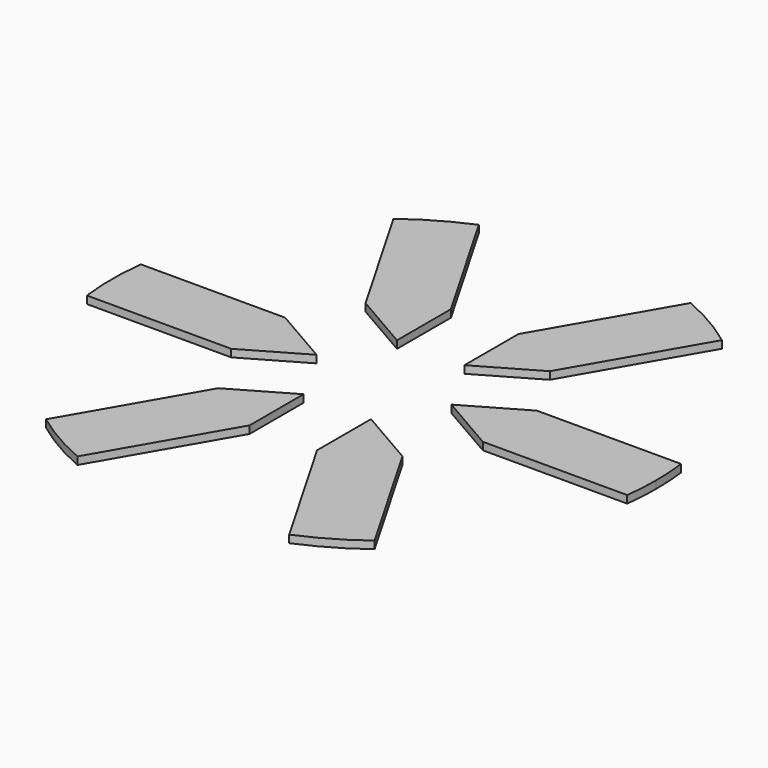
from build123d import *

# Parameters (mm, degrees)
F1_DEPTH = 25


with BuildPart() as f1:
    # F0 (on Top) → F1 (new body)
    with BuildSketch(Plane.XY):
        with BuildLine():
            Line((-416.008745757, 111.46920747), (-691.0677360332, 111.46920747))
            ThreePointArc((-691.0677360332, 111.46920747), (-700, 1e-10), (-691.0677360332, -111.4692074698))
            Line((-691.0677360332, -111.4692074697), (-416.0087457571, -111.4692074698))
            Line((-416.0087457571, -111.4692074699), (-222.9384149397, 0))
            Line((-222.9384149397, 0), (-416.008745757, 111.4692074699))
        make_face()
        with BuildLine():
            ThreePointArc((-691.0677360332, -111.4692074698), (-700, 1e-10), (-691.0677360332, 111.46920747))
            Line((-691.0677360332, 111.46920747), (-893.0703308172, 111.46920747))
            ThreePointArc((-893.0703308172, 111.46920747), (-900, 1e-10), (-893.0703308173, -111.4692074697))
            Line((-893.0703308173, -111.4692074697), (-691.0677360332, -111.4692074697))
        make_face()
    extrude(amount=F1_DEPTH)


with BuildPart() as f1b:
    # F0 (on Top) → F1, piece 2 (new body)
    with BuildSketch(Plane.XY):
        with BuildLine():
            Line((-350.0000000004, -829.1561975887), (-248.9987026083, -654.2168188753))
            ThreePointArc((-248.9987026083, -654.2168188754), (-350.0000000003, -606.2177826489), (-442.0690334255, -542.7476114054))
            Line((-442.0690334255, -542.7476114054), (-543.0703308176, -717.6869901187))
            ThreePointArc((-543.0703308176, -717.6869901187), (-450.0000000003, -779.4228634058), (-350.0000000003, -829.1561975887))
        make_face()
        with BuildLine():
            ThreePointArc((-442.0690334255, -542.7476114054), (-350.0000000003, -606.2177826489), (-248.9987026083, -654.2168188754))
            Line((-248.9987026083, -654.2168188753), (-111.4692074702, -416.0087457569))
            Line((-111.4692074698, -416.0087457571), (-111.4692074699, -193.0703308173))
            Line((-111.4692074699, -193.0703308173), (-304.5395382871, -304.5395382871))
            Line((-304.5395382875, -304.539538287), (-442.0690334255, -542.7476114054))
        make_face()
    extrude(amount=F1_DEPTH)


with BuildPart() as f1c:
    # F0 (on Top) → F1, piece 3 (new body)
    with BuildSketch(Plane.XY):
        with BuildLine():
            ThreePointArc((248.9987026075, -654.2168188756), (349.9999999996, -606.2177826493), (442.0690334249, -542.7476114059))
            Line((442.0690334249, -542.7476114059), (304.5395382868, -304.5395382874))
            Line((304.5395382872, -304.5395382871), (111.4692074699, -193.0703308172))
            Line((111.4692074699, -193.0703308172), (111.4692074699, -416.008745757))
            Line((111.4692074695, -416.0087457572), (248.9987026075, -654.2168188756))
        make_face()
        with BuildLine():
            Line((543.0703308169, -717.6869901193), (442.0690334249, -542.7476114059))
            ThreePointArc((442.0690334249, -542.7476114059), (349.9999999996, -606.2177826493), (248.9987026075, -654.2168188756))
            Line((248.9987026075, -654.2168188756), (349.9999999996, -829.156197589))
            ThreePointArc((349.9999999996, -829.156197589), (449.9999999996, -779.4228634062), (543.0703308169, -717.6869901193))
        make_face()
    extrude(amount=F1_DEPTH)


with BuildPart() as f1d:
    # F0 (on Top) → F1, piece 4 (new body)
    with BuildSketch(Plane.XY):
        with BuildLine():
            ThreePointArc((691.0677360331, -111.4692074702), (697.7633607546, -55.9132577159), (700, 0))
            ThreePointArc((700, 0), (697.7633607547, 55.9132577156), (691.0677360332, 111.4692074696))
            Line((691.0677360332, 111.4692074696), (416.0087457571, 111.4692074696))
            Line((416.0087457571, 111.4692074699), (222.9384149397, 0))
            Line((222.9384149397, 0), (416.008745757, -111.4692074699))
            Line((416.008745757, -111.4692074702), (691.0677360331, -111.4692074702))
        make_face()
        with BuildLine():
            ThreePointArc((691.0677360332, 111.4692074696), (697.7633607547, 55.9132577156), (700, 0))
            ThreePointArc((700, 0), (697.7633607546, -55.9132577159), (691.0677360331, -111.4692074702))
            Line((691.0677360331, -111.4692074702), (893.0703308172, -111.4692074702))
            ThreePointArc((893.0703308172, -111.4692074702), (898.265912115, -55.8421984905), (900, 0))
            ThreePointArc((900, 0), (898.265912115, 55.8421984902), (893.0703308173, 111.4692074696))
            Line((893.0703308173, 111.4692074696), (691.0677360332, 111.4692074696))
        make_face()
    extrude(amount=F1_DEPTH)


with BuildPart() as f1e:
    # F0 (on Top) → F1, piece 5 (new body)
    with BuildSketch(Plane.XY):
        with BuildLine():
            Line((304.5395382872, 304.5395382871), (442.0690334253, 542.7476114056))
            ThreePointArc((442.0690334253, 542.7476114056), (350.0000000001, 606.2177826491), (248.998702608, 654.2168188755))
            Line((248.998702608, 654.2168188755), (111.4692074699, 416.008745757))
            Line((111.4692074698, 416.0087457571), (111.4692074699, 193.0703308173))
            Line((111.4692074699, 193.0703308173), (304.5395382871, 304.5395382871))
        make_face()
        with BuildLine():
            ThreePointArc((248.998702608, 654.2168188755), (350.0000000001, 606.2177826491), (442.0690334253, 542.7476114056))
            Line((442.0690334253, 542.7476114056), (543.0703308173, 717.6869901189))
            ThreePointArc((543.0703308173, 717.6869901189), (450.0000000001, 779.422863406), (350.0000000001, 829.1561975888))
            Line((350.0000000001, 829.1561975888), (248.998702608, 654.2168188755))
        make_face()
    extrude(amount=F1_DEPTH)


with BuildPart() as f1f:
    # F0 (on Top) → F1, piece 6 (new body)
    with BuildSketch(Plane.XY):
        with BuildLine():
            Line((-111.4692074699, 416.008745757), (-248.998702608, 654.2168188755))
            ThreePointArc((-248.998702608, 654.2168188755), (-350, 606.2177826491), (-442.0690334252, 542.7476114056))
            Line((-442.0690334252, 542.7476114056), (-304.5395382872, 304.5395382871))
            Line((-304.5395382872, 304.5395382871), (-111.4692074699, 193.0703308172))
            Line((-111.4692074699, 193.0703308172), (-111.4692074699, 416.008745757))
        make_face()
        with BuildLine():
            ThreePointArc((-442.0690334252, 542.7476114056), (-350, 606.2177826491), (-248.998702608, 654.2168188755))
            Line((-248.998702608, 654.2168188755), (-350, 829.1561975889))
            ThreePointArc((-350, 829.1561975888), (-450, 779.422863406), (-543.0703308172, 717.686990119))
            Line((-543.0703308173, 717.686990119), (-442.0690334252, 542.7476114056))
        make_face()
    extrude(amount=F1_DEPTH)


solid = Compound([f1.part, f1b.part, f1c.part, f1d.part, f1e.part, f1f.part])
